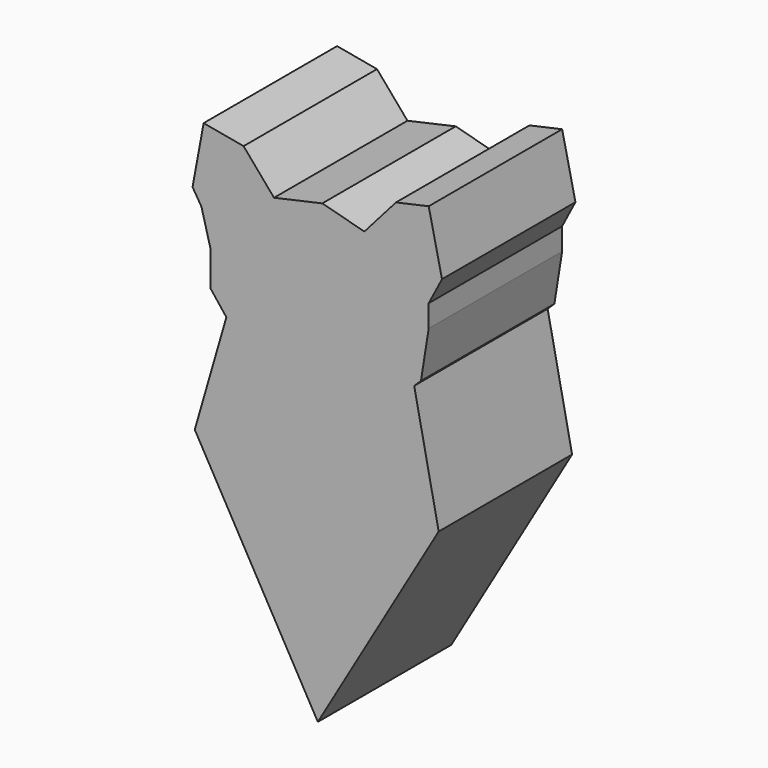
from build123d import *

# Parameters (mm, degrees)
F1_DEPTH = 25.4


with BuildPart() as f1:
    # F0 (on Front) → F1 (new body)
    with BuildSketch(Plane.XZ):
        Polygon((-7.659892, 41.999251), (-13.7416, 43.107137), (-15.429787, 33.990927), (-14.079237, 31.79628), (-12.728688, 26.731718), (-12.728688, 25.212349), (-12.728688, 21.329518), (-10.280816, 18.206371), (-7.832943, 15.083224), (-4.794206, 9.343385), (-1.586649, 5.460554), (3.646733, 4.110004), (7.023108, 4.110004), (10.905939, 7.824017), (14.95759, 15.083224), (18.321248, 18.31751), (19.346878, 19.303693), (20.528609, 26.731718), (20.528609, 30.10809), (22.554435, 33.990927), (20.528609, 43.107137), (15.543124, 41.999251), (10.735117, 36.532301), (4.320004, 38.220487), (-3.025021, 36.588258), align=None)
        Polygon((-7.832943, 15.083224), (-10.280816, 18.206371), (-15.09215, 1.577722), (3.646733, -31.510755), (22.047978, 0), (18.321248, 18.31751), (14.95759, 15.083224), (10.905939, 7.824017), (7.023108, 4.110004), (3.646733, 4.110004), (-1.586649, 5.460554), (-4.794206, 9.343385), align=None)
    extrude(amount=F1_DEPTH)


solid = f1.part
